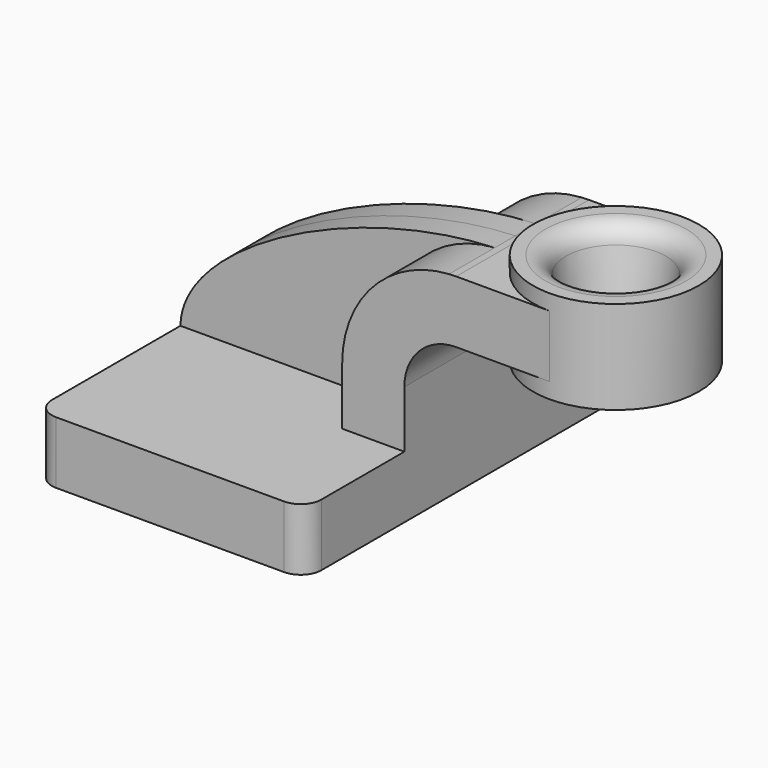
from build123d import *

# Parameters (mm, degrees)
F1_DEPTH = 25
F0_W     = 10
F0_H     = 7.5
F2_DEPTH = 10
F3_DEPTH = 3.125
F5_R     = 2.5
F6_R     = 6.3817313598
F7_DEPTH = 30.0010045886
F7_TAPER = 10
F8_R     = 2.5


with BuildPart() as f1:
    # F0 (on Front) → F1 (new body, symmetric)
    with BuildSketch(Plane.XZ):
        Polygon((16.25, -3.75), (16.25, 3.75), (8.75, 3.75), (-16.25, 3.75), (-16.25, -3.75), align=None)
    extrude(amount=F1_DEPTH, both=True)

    # F0 (on Front) → F2 (join, symmetric)
    with BuildSketch(Plane.XZ):
        with BuildLine():
            Line((8.75, 3.75), (16.25, 3.75))
            Line((16.25, 3.75), (16.25, 10.63))
            ThreePointArc((16.25, 10.63), (18.0805826176, 15.0494173824), (22.5, 16.88))
            Line((22.5, 16.88), (23.75, 16.88))
            Line((23.75, 16.88), (23.75, 24.38))
            Line((23.75, 24.38), (22.5, 24.38))
            add(Edge.make_bspline(
                [(21.641459386, 24.3531704797), (21.9284637446, 24.3648296115), (22.2146783802, 24.37378971), (22.5, 24.38)],
                knots=[43.1879789216, 43.1879789216, 43.1879789216, 43.1879789216, 43.8994236864, 43.8994236864, 43.8994236864, 43.8994236864], degree=3))
            ThreePointArc((21.641459386, 24.3531704797), (12.4783376269, 20.0442861269), (8.75, 10.63))
            Line((8.75, 10.63), (8.75, 3.75))
        make_face()
        with Locations((28.75, 20.63)):
            Rectangle(F0_W, F0_H)
    extrude(amount=F2_DEPTH, both=True)

    # F0 (on Front) → F3 (join, symmetric)
    with BuildSketch(Plane.XZ):
        with BuildLine():
            Line((-16.25, 3.75), (8.75, 3.75))
            Line((8.75, 3.75), (8.75, 10.63))
            ThreePointArc((8.75, 10.63), (12.4783376269, 20.0442861269), (21.641459386, 24.3531704797))
            add(Edge.make_bspline(
                [(-16.25, 3.75), (-16.1136864782, 12.9915711447), (4.2189709464, 23.645407395), (21.641459386, 24.3531704797)],
                knots=[0, 0, 0, 0, 43.1879789216, 43.1879789216, 43.1879789216, 43.1879789216], degree=3))
        make_face()
    extrude(amount=F3_DEPTH, both=True)

    # F0 (on Front) → F4 (revolve)
    with BuildSketch(Plane.XZ):
        Polygon((33.75, 24.38), (33.75, 16.88), (33.75, 15.0000045886), (43.75, 15.0000045886), (43.75, 26.2500045886), (33.75, 26.2500045886), align=None)
    revolve(axis=Axis((33.75, 0, 20.6250045886), (0, 0, 1)))

    # F5
    f5_edges = [f1.edges().sort_by_distance(p)[0] for p in [
        (16.25, -25, 0),
        (-16.25, -25, 0),
        (-16.25, 25, 0),
        (16.25, 25, 0),
    ]]
    fillet(f5_edges, radius=F5_R)

    # F6 (on face) → F7 (cut, through all)
    with BuildSketch(Plane.XY.offset(26.2500045886)):
        with Locations((33.75, 0)):
            Circle(F6_R)
    extrude(amount=-F7_DEPTH, taper=F7_TAPER, mode=Mode.SUBTRACT)

    # F8
    f8_edges = [f1.edges().sort_by_distance(p)[0] for p in [
        (27.368269, 0, 26.250005),
        (29.351947, 0, 15.000005),
    ]]
    fillet(f8_edges, radius=F8_R)


solid = f1.part
